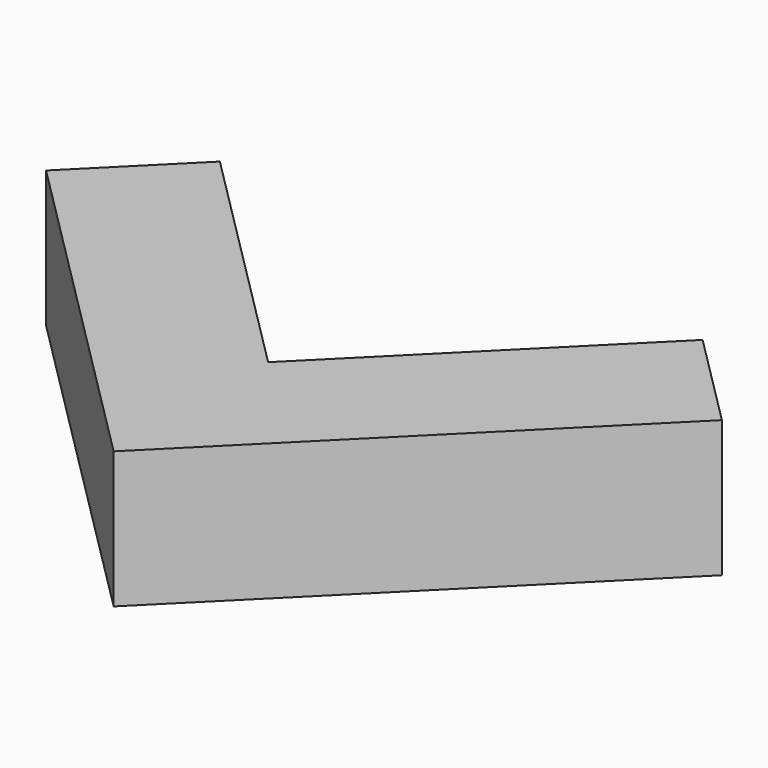
from build123d import *

# Parameters (mm, degrees)
BOX172_W                  = 3.5
BOX172_H                  = 1
BOX172_DEPTH              = 1
BOX173_W                  = 3.5
BOX173_H                  = 1
BOX173_DEPTH              = 1
FUSION032_PLACEMENT_ANGLE = 45


with BuildPart() as cube140:
    # Box172 → Box172 (new body)
    with BuildSketch(Plane.XY):
        with Locations((1.75, 0.5)):
            Rectangle(BOX172_W, BOX172_H)
    extrude(amount=BOX172_DEPTH)


with BuildPart() as obj1:
    # Box173 → Box173 (new body)
    with BuildSketch(Plane(origin=(1, 0, 0), x_dir=(0, 1, 0), z_dir=(0, 0, 1))):
        with Locations((1.75, 0.5)):
            Rectangle(BOX173_W, BOX173_H)
    extrude(amount=BOX173_DEPTH)

    # Fusion032: union Cube140
    add(cube140.part)


with BuildPart() as obj1_1:
    # Fusion032 placement: moved
    add(obj1.part.moved(Location((0, -8, 0))).rotate(Axis((0, -8, 0), (0, 0, 1)), FUSION032_PLACEMENT_ANGLE))


solid = obj1_1.part
